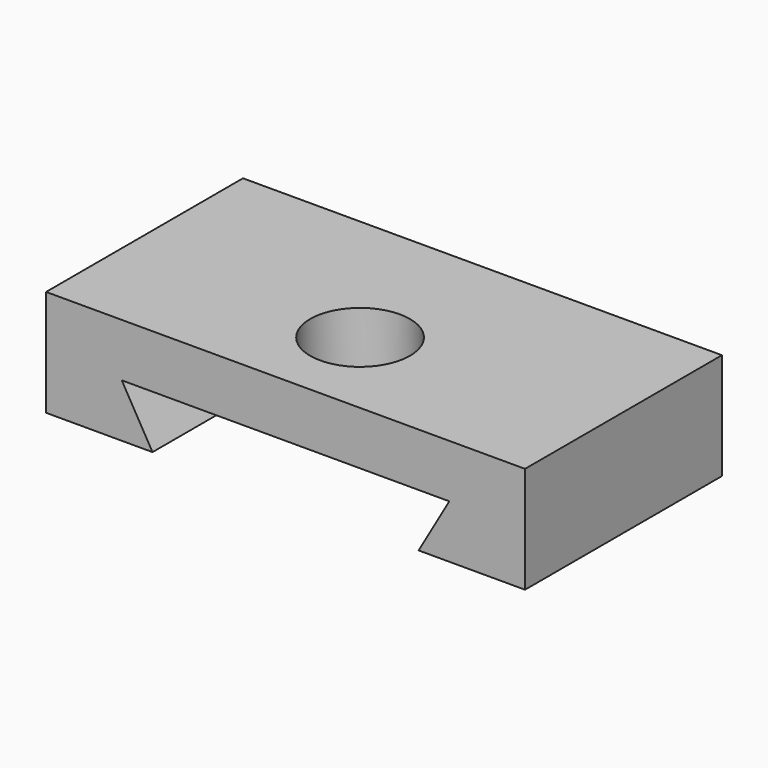
from build123d import *

# Parameters (mm, degrees)
F0_W     = 114.3
F0_H     = 58.7375
F1_DEPTH = 25.4
F3_DEPTH = 70.358
F4_R     = 11.90625
F5_DEPTH = 24.892


with BuildPart() as f1:
    # F0 (on Top) → F1 (new body)
    with BuildSketch(Plane.XY):
        with Locations((-4.318278, 5.723361)):
            Rectangle(F0_W, F0_H)
    extrude(amount=-F1_DEPTH)

    # F2 (on face) → F3 (cut)
    with BuildSketch(Plane.XZ.offset(23.645389)):
        Polygon((-43.400627, -12.7), (-36.068278, -25.4), (27.431722, -25.4), (34.76407, -12.7), align=None)
    extrude(amount=-F3_DEPTH, mode=Mode.SUBTRACT)

    # F4 (on face) → F5 (cut)
    with BuildSketch(Plane.XY):
        with Locations((-4.318278, -1.420389)):
            Circle(F4_R)
    extrude(amount=-F5_DEPTH, mode=Mode.SUBTRACT)


solid = f1.part
